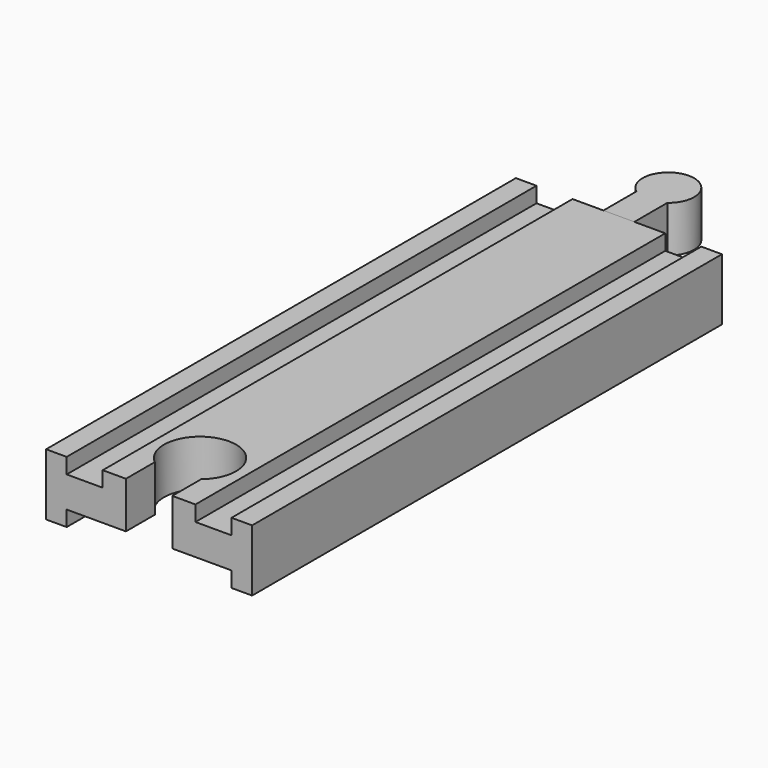
from build123d import *

# Parameters (mm, degrees)
PAD_DEPTH         = 114
POCKET_DEPTH      = 12.001
PAD001_DEPTH      = 6
PAD001_DEPTH_BACK = 3


with BuildPart() as body:
    # Sketch → Pad (new body)
    with BuildSketch(Plane.XZ):
        Polygon((-20, 6), (-20, -6), (-16, -6), (-16, -3), (-9, -3), (9, -3), (16, -3), (16, -6), (20, -6), (20, 6), (16, 6), (16, 3), (9, 3), (9, 6), (-9, 6), (-9, 3), (-16, 3), (-16, 6), align=None)
    extrude(amount=PAD_DEPTH)

    # Sketch002 (on Face14 of Pad) → Pocket (cut, through all)
    with BuildSketch(Plane(origin=(0, 0, 6), x_dir=(-1, 0, 0), z_dir=(0, 0, 1))):
        with BuildLine():
            Line((-4.5, 114), (4.5, 114))
            Line((4.5, 114), (4.5, 107))
            ThreePointArc((-4.5, 107), (0, 94.638097), (4.5, 107))
            Line((-4.5, 114), (-4.5, 107))
        make_face()
    extrude(amount=-POCKET_DEPTH, mode=Mode.SUBTRACT)


with BuildPart() as body001:
    # Sketch001 → Pad001 (new body, two sides)
    with BuildSketch(Plane.XY) as pad001_sk:
        with BuildLine():
            Line((-3, 0), (3, 0))
            Line((3, 0), (3, 8))
            ThreePointArc((3, 8), (0, 17), (-3, 8))
            Line((-3, 0), (-3, 8))
        make_face()
    extrude(amount=PAD001_DEPTH)
    extrude(pad001_sk.sketch, amount=-PAD001_DEPTH_BACK)


solid = Compound([body.part, body001.part])
